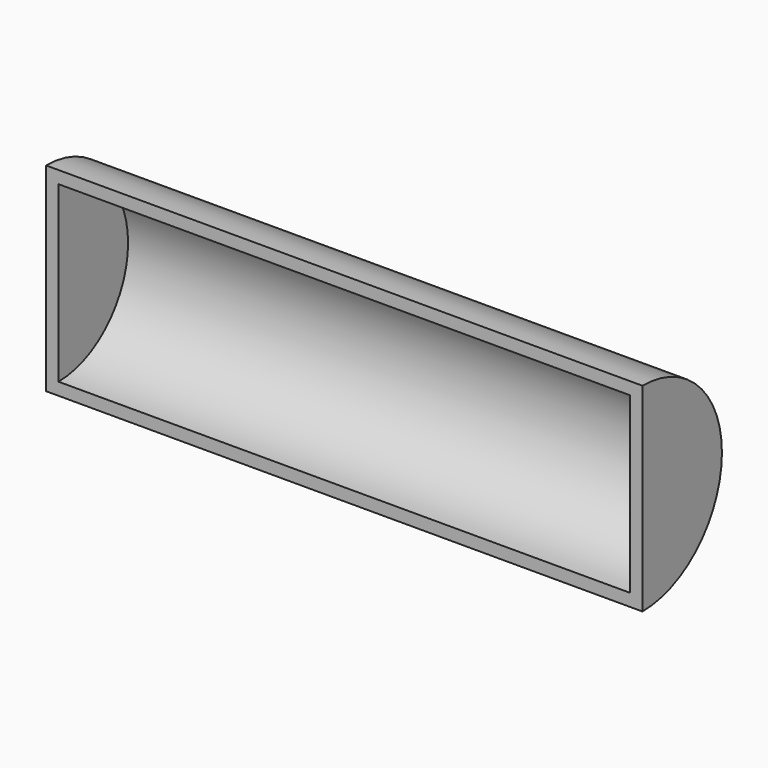
from build123d import *

# Parameters (mm, degrees)
F1_DEPTH = 152.4
F2_T     = -6.35


with BuildPart() as f1:
    # F0 (on Right) → F1 (new body, symmetric)
    with BuildSketch(Plane.YZ):
        with BuildLine():
            ThreePointArc((0, -50.8), (35.9210244843, -35.9210244843), (50.8, 0))
            ThreePointArc((50.8, 0), (35.9210244843, 35.9210244843), (0, 50.8))
            Line((0, 50.8), (0, -50.8))
        make_face()
    extrude(amount=F1_DEPTH, both=True)

    # F2
    f2_openings = [f1.faces().sort_by_distance(p)[0] for p in [
        (0, 0, 0),
    ]]
    offset(amount=F2_T, openings=f2_openings)


solid = f1.part
